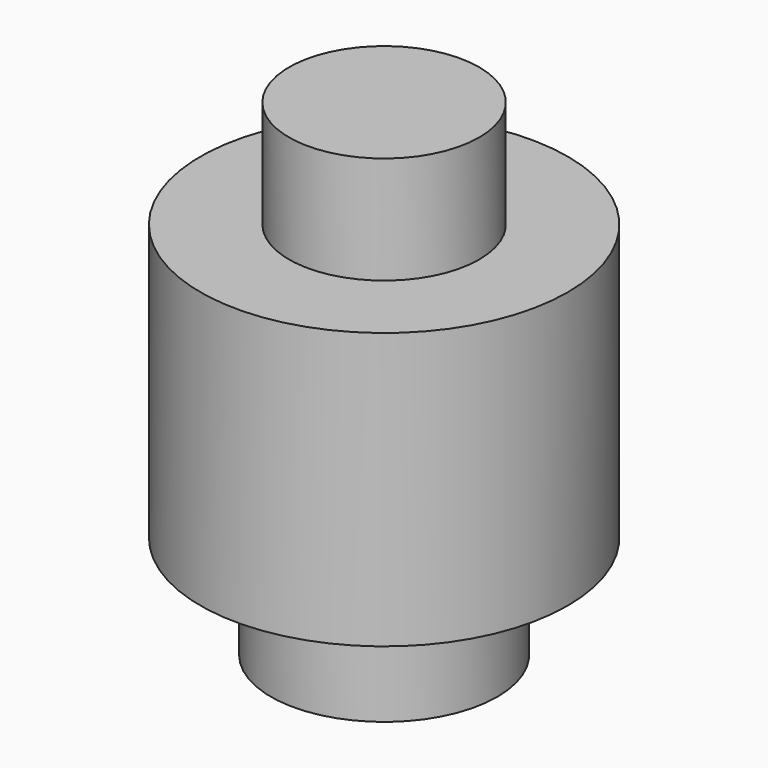
from build123d import *

# Parameters (mm, degrees)
F0_R     = 18.554146
F1_DEPTH = 20.96888
F2_R     = 35.841286
F3_DEPTH = 53.82837
F5_R     = 22.098703
F6_DEPTH = 20.12846


with BuildPart() as f1:
    # F0 (on Top) → F1 (new body)
    with BuildSketch(Plane.XY):
        Circle(F0_R)
    extrude(amount=F1_DEPTH)

    # F2 (on Top) → F3 (join)
    with BuildSketch(Plane.XY):
        Circle(F2_R)
    extrude(amount=-F3_DEPTH)

    # F5 (on face) → F6 (join)
    with BuildSketch(Plane(origin=(0, 0, -53.82837), x_dir=(1, 0, 0), z_dir=(0, 0, -1))):
        Circle(F5_R)
    extrude(amount=F6_DEPTH)


solid = f1.part
